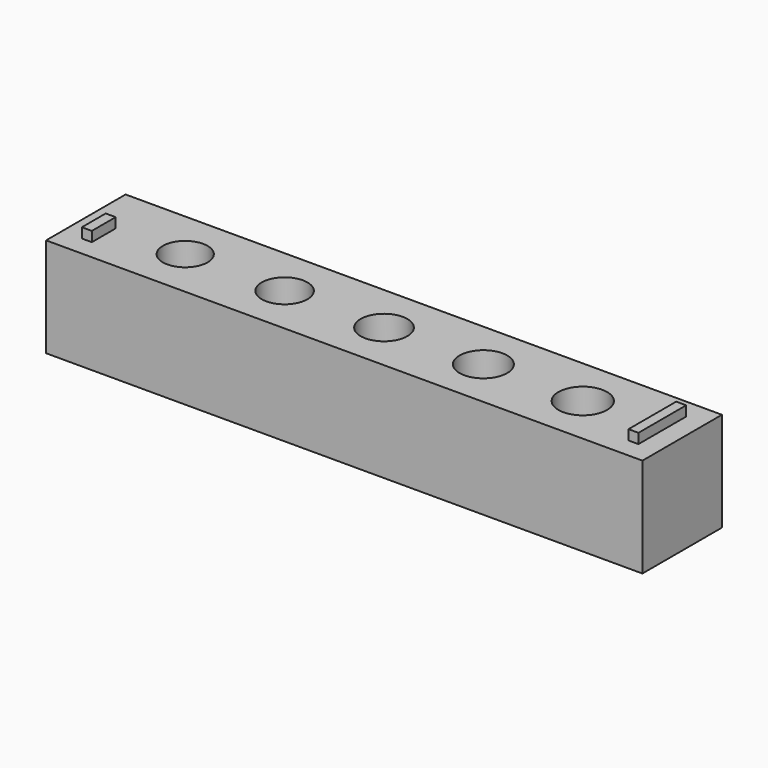
from build123d import *

# Parameters (mm, degrees)
SKETCH_W      = 60
SKETCH_H      = 10
SKETCH_R      = 1.65
PAD_DEPTH     = 10
SKETCH001_W   = 1
SKETCH001_H   = 3
SKETCH001_H_2 = 6
PAD001_DEPTH  = 1
SKETCH002_R   = 2.25
SKETCH002_R_2 = 2.3
SKETCH002_R_3 = 2.35
SKETCH002_R_4 = 2.4
SKETCH002_R_5 = 2.45
POCKET_DEPTH  = 5


with BuildPart() as part:
    # Sketch → Pad (new body)
    with BuildSketch(Plane.XY):
        Rectangle(SKETCH_W, SKETCH_H)
        with Locations((-20, 0)):
            Circle(SKETCH_R, mode=Mode.SUBTRACT)
        with Locations((-10, 0)):
            Circle(SKETCH_R, mode=Mode.SUBTRACT)
        Circle(SKETCH_R, mode=Mode.SUBTRACT)
        with Locations((10, 0)):
            Circle(SKETCH_R, mode=Mode.SUBTRACT)
        with Locations((20, 0)):
            Circle(SKETCH_R, mode=Mode.SUBTRACT)
    extrude(amount=PAD_DEPTH)

    # Sketch001 → Pad001 (join)
    with BuildSketch(Plane.XY.offset(10)):
        with Locations((-27.5, -1.5)):
            Rectangle(SKETCH001_W, SKETCH001_H)
        with Locations((27.5, 0)):
            Rectangle(SKETCH001_W, SKETCH001_H_2)
    extrude(amount=PAD001_DEPTH)

    # Sketch002 (on Face11 of Pad) → Pocket (cut)
    with BuildSketch(Plane.XY.offset(10)):
        with Locations((-20, 0)):
            Circle(SKETCH002_R)
        with Locations((-10, 0)):
            Circle(SKETCH002_R_2)
        Circle(SKETCH002_R_3)
        with Locations((10, 0)):
            Circle(SKETCH002_R_4)
        with Locations((20, 0)):
            Circle(SKETCH002_R_5)
    extrude(amount=-POCKET_DEPTH, mode=Mode.SUBTRACT)


solid = part.part
